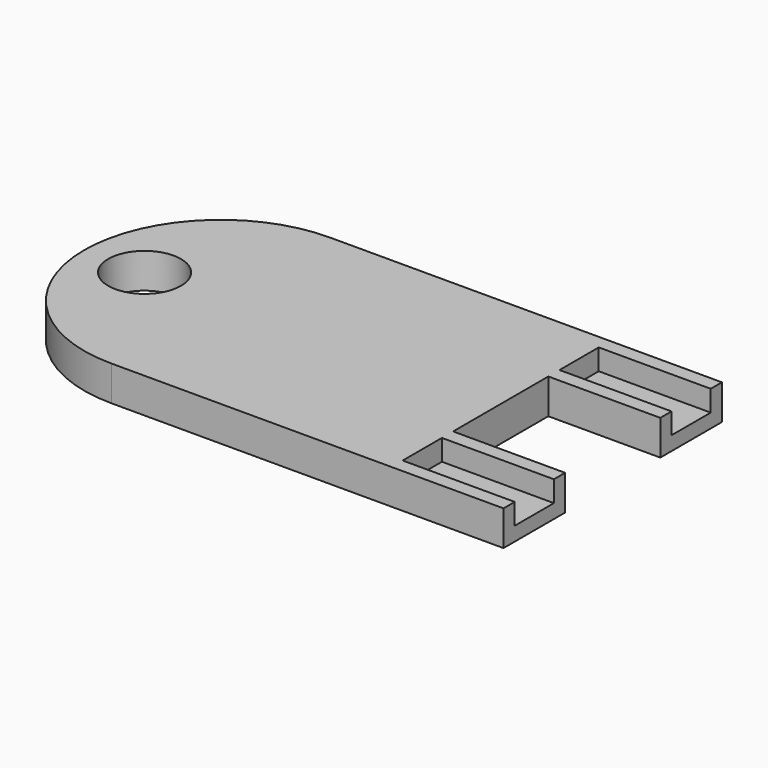
from build123d import *

# Parameters (mm, degrees)
F0_W     = 12.7
F0_H     = 8.73125
F1_DEPTH = 3.96875
F2_W     = 12.7
F2_H     = 2.778125
F2_H_2   = 5.55625
F3_DEPTH = 2.38125


with BuildPart() as f1:
    # F0 (on Top) → F1 (new body)
    with BuildSketch(Plane.XY):
        Polygon((0, 30.95625), (0, 15.478125), (31.75, 15.478125), (31.75, 22.225), (31.75, 30.95625), align=None)
        with BuildLine():
            Line((-4.5048706762, 15.478125), (0, 15.478125))
            Line((0, 15.478125), (0, 30.95625))
            ThreePointArc((0, 30.95625), (-10.9446871476, 26.4228121476), (-15.478125, 15.478125))
            Line((-15.478125, 15.478125), (-12.7599276074, 15.478125))
            ThreePointArc((-12.7599276074, 15.478125), (-8.6323991418, 19.6056534656), (-4.5048706762, 15.478125))
        make_face()
        with BuildLine():
            ThreePointArc((-15.478125, 15.478125), (-10.9446871476, 4.5334378524), (0, 0))
            Line((0, 0), (0, 15.478125))
            Line((0, 15.478125), (-4.5048706762, 15.478125))
            ThreePointArc((-4.5048706762, 15.478125), (-8.6323991418, 11.3505965344), (-12.7599276074, 15.478125))
            Line((-12.7599276074, 15.478125), (-15.478125, 15.478125))
        make_face()
        Polygon((0, 15.478125), (0, 0), (31.75, 0), (31.75, 8.73125), (31.75, 15.478125), align=None)
        with Locations((38.1, 4.365625)):
            Rectangle(F0_W, F0_H)
        with Locations((38.1, 26.590625)):
            Rectangle(F0_W, F0_H)
    extrude(amount=F1_DEPTH)

    # F2 (on face) → F3 (cut)
    with BuildSketch(Plane.XY.offset(3.96875)):
        with Locations((38.1, 27.9796875)):
            Rectangle(F2_W, F2_H)
        with Locations((38.1, 25.2015625)):
            Rectangle(F2_W, F2_H)
        with Locations((38.1, 4.365625)):
            Rectangle(F2_W, F2_H_2)
    extrude(amount=-F3_DEPTH, mode=Mode.SUBTRACT)


solid = f1.part
